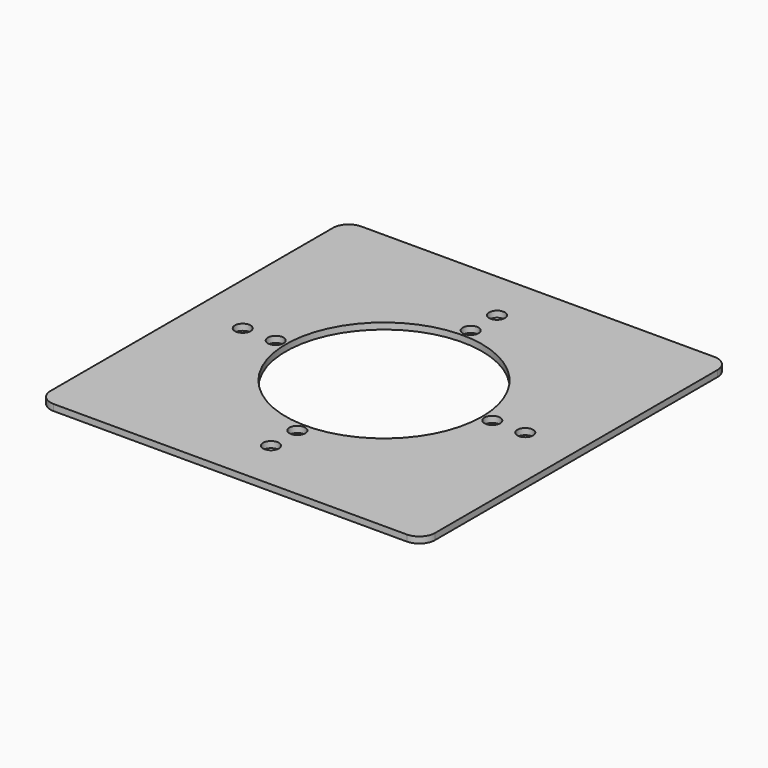
from build123d import *

# Parameters (mm, degrees)
F0_R     = 5
F0_R_2   = 62.5
F1_DEPTH = 4
F2_R     = 5
F3_DEPTH = 25


with BuildPart() as f1:
    # F0 (on Top) → F1 (new body)
    with BuildSketch(Plane.XY):
        with BuildLine():
            Line((112.5, 122.5), (-112.5, 122.5))
            ThreePointArc((-112.5, 122.5), (-119.571068, 119.571068), (-122.5, 112.5))
            Line((-122.5, 112.5), (-122.5, -112.5))
            ThreePointArc((-122.5, -112.5), (-119.571068, -119.571068), (-112.5, -122.5))
            Line((-112.5, -122.5), (112.5, -122.5))
            ThreePointArc((112.5, -122.5), (119.571068, -119.571068), (122.5, -112.5))
            Line((122.5, -112.5), (122.5, 112.5))
            ThreePointArc((122.5, 112.5), (119.571068, 119.571068), (112.5, 122.5))
        make_face()
        with Locations((0, -69)):
            Circle(F0_R, mode=Mode.SUBTRACT)
        with Locations((-69, 0)):
            Circle(F0_R, mode=Mode.SUBTRACT)
        Circle(F0_R_2, mode=Mode.SUBTRACT)
        with Locations((69, 0)):
            Circle(F0_R, mode=Mode.SUBTRACT)
        with Locations((0, 69)):
            Circle(F0_R, mode=Mode.SUBTRACT)
    extrude(amount=F1_DEPTH)

    # F2 (on face) → F3 (cut)
    with BuildSketch(Plane.XY.offset(4)):
        with Locations((0, 90)):
            Circle(F2_R)
        with Locations((-90, 0)):
            Circle(F2_R)
        with Locations((0, -90)):
            Circle(F2_R)
        with Locations((90, 0)):
            Circle(F2_R)
    extrude(amount=-F3_DEPTH, mode=Mode.SUBTRACT)


solid = f1.part
